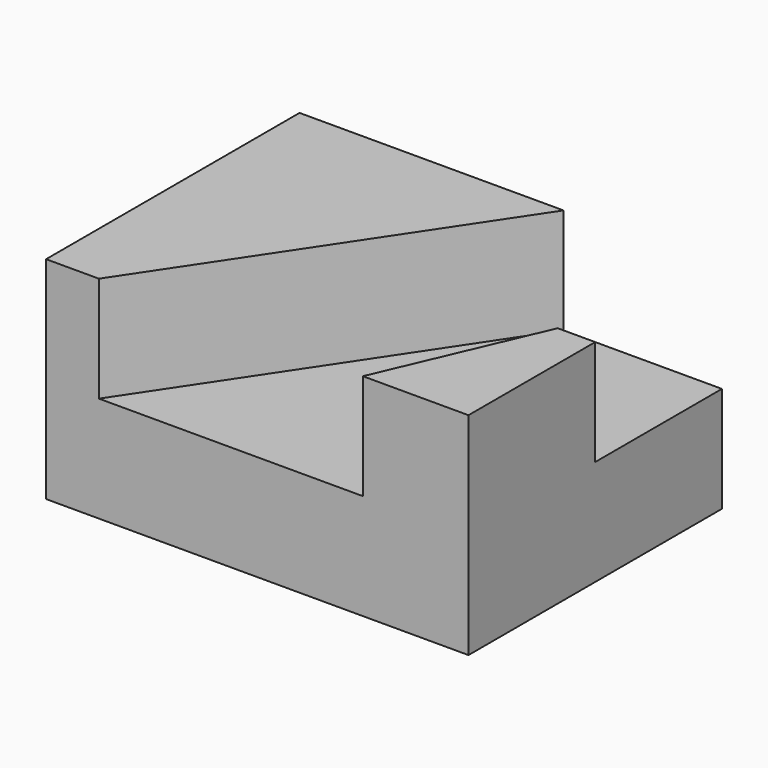
from build123d import *

# Parameters (mm, degrees)
F0_W     = 101.6
F0_H     = 76.2
F1_DEPTH = 25.4
F3_DEPTH = 25.4
F5_DEPTH = 25.4


with BuildPart() as f1:
    # F0 (on Top) → F1 (new body)
    with BuildSketch(Plane.XY):
        with Locations((-2.444915, -13.285797)):
            Rectangle(F0_W, F0_H)
    extrude(amount=F1_DEPTH)

    # F2 (on face) → F3 (join)
    with BuildSketch(Plane.XY.offset(25.4)):
        Polygon((-53.244915, 24.814203), (-53.244915, -51.385797), (-40.544915, -51.385797), (10.255085, 24.814203), align=None)
    extrude(amount=F3_DEPTH)

    # F4 (on face) → F5 (join)
    with BuildSketch(Plane.XY.offset(25.4)):
        Polygon((22.955085, -51.385797), (48.355085, -51.385797), (48.355085, -13.285797), (39.337236, -13.285797), align=None)
    extrude(amount=F5_DEPTH)


solid = f1.part
